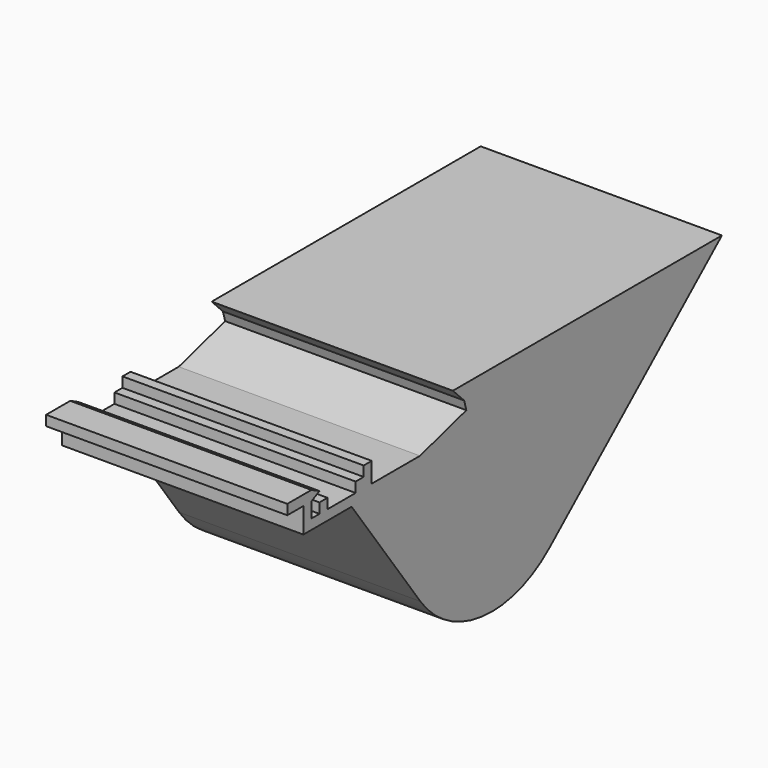
from build123d import *

# Parameters (mm, degrees)
F0_W     = 2
F0_H     = 2
F0_W_2   = 4
F1_DEPTH = 48


with BuildPart() as f1:
    # F0 (on Right) → F1 (new body)
    with BuildSketch(Plane.YZ):
        with BuildLine():
            Line((10.198316, -11.005537), (14.505481, -7.261376))
            Line((14.505481, -7.261376), (-10.490369, 21.493059))
            Line((-10.490369, 21.493059), (-22.027238, 18.191447))
            Line((-22.027238, 18.191447), (-34.027238, 18.191447))
            Line((-34.027238, 18.191447), (-36.027238, 18.191447))
            Line((-36.027238, 18.191447), (-38.027238, 18.191447))
            Line((-38.027238, 18.191447), (-45.027238, 18.191447))
            Line((-45.027238, 18.191447), (-47.027238, 18.191447))
            Line((-47.027238, 18.191447), (-49.027238, 18.191447))
            Line((-49.027238, 18.191447), (-49.027238, 16.191447))
            Line((-49.027238, 16.191447), (-39.027238, 16.191447))
            Line((-39.027238, 16.191447), (-21.926756, -7.345347))
            ThreePointArc((-21.926756, -7.345347), (-6.669481, -16.243127), (10.198316, -11.005537))
        make_face()
        Polygon((53.078913, 26.269997), (-13.84313, 26.269997), (-11.040637, 23.415871), (-10.490369, 21.493059), (14.505481, -7.261376), align=None)
        Polygon((-36.027238, 18.191447), (-34.027238, 18.191447), (-34.027238, 22.191447), (-36.027238, 22.191447), (-36.027238, 20.191447), align=None)
        with Locations((-37.027238, 19.191447)):
            Rectangle(F0_W, F0_H)
        with Locations((-46.027238, 19.191447)):
            Rectangle(F0_W, F0_H)
        Polygon((-51.027238, 16.191447), (-49.027238, 16.191447), (-49.027238, 18.191447), (-49.027238, 21.191447), (-49.027238, 22.191447), (-49.027238, 23.191447), (-51.027238, 23.191447), (-51.027238, 21.191447), align=None)
        Polygon((-49.027238, 22.191447), (-49.027238, 21.191447), (-47.027238, 22.191447), align=None)
        Polygon((-49.027238, 23.191447), (-49.027238, 22.191447), (-47.027238, 22.191447), align=None)
        with Locations((-53.027238, 22.191447)):
            Rectangle(F0_W_2, F0_H)
    extrude(amount=F1_DEPTH)


solid = f1.part
